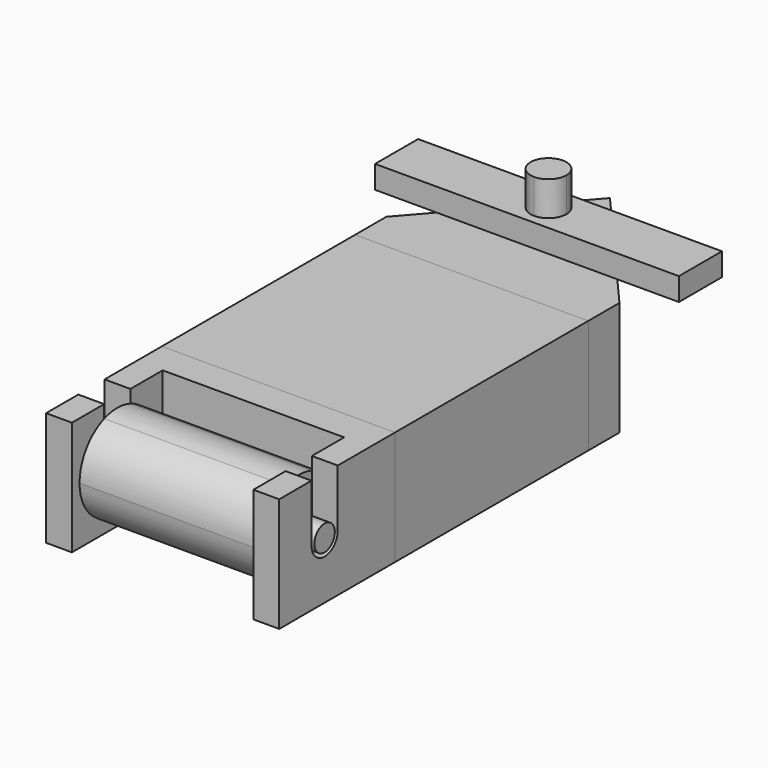
from build123d import *

# Parameters (mm, degrees)
F0_W          = 12.9693616182
F0_H          = 21.4865580201
F0_H_2        = 5.3862379864
F1_DEPTH      = 12.7
F2_DEPTH      = 12.7
F3_DEPTH      = 12.7
F4_DEPTH      = 19.05
F5_START      = 12.7
F5_DEPTH      = 2.54
F6_R          = 1.4172462463
F7_DEPTH      = 6.8084548617
F7_DEPTH_BACK = 26.9963636453
F8_DEPTH      = 23.0633160099
F8_DEPTH_BACK = 2.8754072264
F9_DEPTH      = 20.1879087836


with BuildPart() as f1:
    # F0 (on Top) → F1 (new body)
    with BuildSketch(Plane.XY):
        Polygon((0, 0), (0, 21.4865580201), (-12.9693616182, 21.4865580201), (-12.9693616182, 0), (-12.9693616182, -5.3862379864), (0, -5.3862379864), align=None)
        with Locations((6.4846808091, 10.7432790101)):
            Rectangle(F0_W, F0_H)
        with Locations((6.4846808091, -2.6931189932)):
            Rectangle(F0_W, F0_H_2)
    extrude(amount=F1_DEPTH)


with BuildPart() as f2:
    # F0 (on Top) → F2 (new body, through all)
    with BuildSketch(Plane.XY):
        Polygon((0, -8.8687147945), (0, -5.3862379864), (-12.9693616182, -5.3862379864), (-12.9693616182, -21.4865580201), (-10.0939543918, -21.4865580201), (-10.0939543918, -8.8687147945), align=None)
        Polygon((12.9693616182, -5.3862379864), (0, -5.3862379864), (0, -8.8687147945), (10.0939543918, -8.8687147945), (10.0939543918, -21.4865580201), (12.9693616182, -21.4865580201), align=None)
    extrude(amount=F2_DEPTH)

    # F6 (on face) → F7 (cut, two sides)
    with BuildSketch(Plane(origin=(10.0939543918, 0, 0), x_dir=(0, -1, 0), z_dir=(-1, 0, 0))) as f7_sk:
        with BuildLine():
            ThreePointArc((13.3500925612, 6.35), (15.1776364073, 4.5224561539), (17.0051802535, 6.35))
            ThreePointArc((17.0051802535, 6.35), (15.1776364073, 8.1775438461), (13.3500925612, 6.35))
        make_face()
        with Locations((15.1776364073, 6.35)):
            Circle(F6_R, mode=Mode.SUBTRACT)
        with Locations((15.1776364073, 6.35)):
            Circle(F6_R)
        with BuildLine():
            ThreePointArc((13.3500925612, 6.35), (15.1776364073, 8.1775438461), (17.0051802535, 6.35))
            Line((17.0051802535, 6.35), (17.0051802535, 11.2694925814))
            ThreePointArc((17.0051802535, 11.2694925814), (15.1776364073, 11.5979828284), (13.3500925612, 11.2694925814))
            Line((13.3500925612, 11.2694925814), (13.3500925612, 6.35))
        make_face()
        with BuildLine():
            ThreePointArc((13.3500925612, 11.2694925814), (15.1776364073, 11.5979828284), (17.0051802535, 11.2694925814))
            Line((17.0051802535, 11.2694925814), (17.0051802535, 12.7))
            Line((17.0051802535, 12.7), (13.3500925612, 12.7))
            Line((13.3500925612, 12.7), (13.3500925612, 11.2694925814))
        make_face()
    extrude(amount=-F7_DEPTH, mode=Mode.SUBTRACT)
    extrude(f7_sk.sketch, amount=F7_DEPTH_BACK, mode=Mode.SUBTRACT)


with BuildPart() as f3:
    # F0 (on Top) → F3 (new body, through all)
    with BuildSketch(Plane.XY):
        Polygon((-12.9693616182, 21.4865580201), (0, 21.4865580201), (0, 29.1743092239), (-10.0531563319, 29.1743092239), (-12.9693616182, 25.8271116763), align=None)
        Polygon((0, 29.1743092239), (0, 21.4865580201), (12.9693616182, 21.4865580201), (12.9693616182, 25.8271116763), (10.0531563319, 29.1743092239), align=None)
        with BuildLine():
            Line((0, 30.1767262363), (0, 29.1743092239))
            Line((0, 29.1743092239), (10.0531563319, 29.1743092239))
            Line((10.0531563319, 29.1743092239), (7.4459156487, 32.1668796241))
            Line((7.4459156487, 32.1668796241), (1.9901533878, 32.1668796241))
            ThreePointArc((1.9901533878, 32.1668796241), (1.4072509561, 30.759628668), (0, 30.1767262363))
        make_face()
        with BuildLine():
            Line((0, 35.1594500244), (0, 34.1570330119))
            ThreePointArc((0, 34.1570330119), (1.4072509561, 33.5741305802), (1.9901533878, 32.1668796241))
            Line((1.9901533878, 32.1668796241), (7.4459156487, 32.1668796241))
            Line((7.4459156487, 32.1668796241), (4.8386749655, 35.1594500244))
            Line((4.8386749655, 35.1594500244), (0, 35.1594500244))
        make_face()
        Polygon((0, 40.7132431865), (0, 35.1594500244), (4.8386749655, 35.1594500244), align=None)
        with BuildLine():
            Line((-10.0531563319, 29.1743092239), (0, 29.1743092239))
            Line((0, 29.1743092239), (0, 30.1767262363))
            ThreePointArc((0, 30.1767262363), (-1.9901533878, 32.1668796241), (0, 34.1570330119))
            Line((0, 34.1570330119), (0, 35.1594500244))
            Line((0, 35.1594500244), (-4.8386749655, 35.1594500244))
            Line((-4.8386749655, 35.1594500244), (-10.0531563319, 29.1743092239))
        make_face()
        Polygon((0, 40.7132431865), (-4.8386749655, 35.1594500244), (0, 35.1594500244), align=None)
        with BuildLine():
            Line((0, 32.1668796241), (0, 30.1767262363))
            ThreePointArc((0, 30.1767262363), (1.4072509561, 30.759628668), (1.9901533878, 32.1668796241))
            Line((1.9901533878, 32.1668796241), (0, 32.1668796241))
        make_face()
        with BuildLine():
            ThreePointArc((0, 34.1570330119), (-1.9901533878, 32.1668796241), (0, 30.1767262363))
            Line((0, 30.1767262363), (0, 32.1668796241))
            Line((0, 32.1668796241), (0, 34.1570330119))
        make_face()
        with BuildLine():
            Line((0, 34.1570330119), (0, 32.1668796241))
            Line((0, 32.1668796241), (1.9901533878, 32.1668796241))
            ThreePointArc((1.9901533878, 32.1668796241), (1.4072509561, 33.5741305802), (0, 34.1570330119))
        make_face()
    extrude(amount=F3_DEPTH)

    # F0 (on Top) → F4 (join)
    with BuildSketch(Plane.XY):
        with BuildLine():
            Line((0, 32.1668796241), (0, 30.1767262363))
            ThreePointArc((0, 30.1767262363), (1.4072509561, 30.759628668), (1.9901533878, 32.1668796241))
            Line((1.9901533878, 32.1668796241), (0, 32.1668796241))
        make_face()
        with BuildLine():
            Line((0, 34.1570330119), (0, 32.1668796241))
            Line((0, 32.1668796241), (1.9901533878, 32.1668796241))
            ThreePointArc((1.9901533878, 32.1668796241), (1.4072509561, 33.5741305802), (0, 34.1570330119))
        make_face()
        with BuildLine():
            ThreePointArc((0, 34.1570330119), (-1.9901533878, 32.1668796241), (0, 30.1767262363))
            Line((0, 30.1767262363), (0, 32.1668796241))
            Line((0, 32.1668796241), (0, 34.1570330119))
        make_face()
    extrude(amount=F4_DEPTH)


with BuildPart() as f5:
    # F0 (on Top) → F5 (new body)
    with BuildSketch(Plane.XY.offset(F5_START)):
        Polygon((7.4459156487, 32.1668796241), (10.0531563319, 29.1743092239), (16.9014092535, 29.1743092239), (16.9014092535, 32.1668796241), align=None)
        with BuildLine():
            Line((0, 30.1767262363), (0, 29.1743092239))
            Line((0, 29.1743092239), (10.0531563319, 29.1743092239))
            Line((10.0531563319, 29.1743092239), (7.4459156487, 32.1668796241))
            Line((7.4459156487, 32.1668796241), (1.9901533878, 32.1668796241))
            ThreePointArc((1.9901533878, 32.1668796241), (1.4072509561, 30.759628668), (0, 30.1767262363))
        make_face()
        Polygon((4.8386749655, 35.1594500244), (7.4459156487, 32.1668796241), (16.9014092535, 32.1668796241), (16.9014092535, 35.1594500244), align=None)
        with BuildLine():
            Line((0, 35.1594500244), (0, 34.1570330119))
            ThreePointArc((0, 34.1570330119), (1.4072509561, 33.5741305802), (1.9901533878, 32.1668796241))
            Line((1.9901533878, 32.1668796241), (7.4459156487, 32.1668796241))
            Line((7.4459156487, 32.1668796241), (4.8386749655, 35.1594500244))
            Line((4.8386749655, 35.1594500244), (0, 35.1594500244))
        make_face()
        with BuildLine():
            Line((-10.0531563319, 29.1743092239), (0, 29.1743092239))
            Line((0, 29.1743092239), (0, 30.1767262363))
            ThreePointArc((0, 30.1767262363), (-1.9901533878, 32.1668796241), (0, 34.1570330119))
            Line((0, 34.1570330119), (0, 35.1594500244))
            Line((0, 35.1594500244), (-4.8386749655, 35.1594500244))
            Line((-4.8386749655, 35.1594500244), (-10.0531563319, 29.1743092239))
        make_face()
        Polygon((-16.9014092535, 29.1743092239), (-10.0531563319, 29.1743092239), (-4.8386749655, 35.1594500244), (-16.9014092535, 35.1594500244), (-16.9014092535, 32.1668796241), align=None)
    extrude(amount=F5_DEPTH)


with BuildPart() as f8:
    # F6 (on face) → F8 (new body, two sides)
    with BuildSketch(Plane(origin=(10.0939543918, 0, 0), x_dir=(0, -1, 0), z_dir=(-1, 0, 0))) as f8_sk:
        with Locations((15.1776364073, 6.35)):
            Circle(F6_R)
    extrude(amount=F8_DEPTH)
    extrude(f8_sk.sketch, amount=-F8_DEPTH_BACK)

    # F6 (on face) → F9 (join, through all)
    with BuildSketch(Plane(origin=(10.0939543918, 0, 0), x_dir=(0, -1, 0), z_dir=(-1, 0, 0))):
        with BuildLine():
            ThreePointArc((13.3500925612, 6.35), (15.1776364073, 4.5224561539), (17.0051802535, 6.35))
            ThreePointArc((17.0051802535, 6.35), (15.1776364073, 8.1775438461), (13.3500925612, 6.35))
        make_face()
        with Locations((15.1776364073, 6.35)):
            Circle(F6_R, mode=Mode.SUBTRACT)
        with BuildLine():
            ThreePointArc((13.3500925612, 6.35), (15.1776364073, 8.1775438461), (17.0051802535, 6.35))
            Line((17.0051802535, 6.35), (17.0051802535, 11.2694925814))
            ThreePointArc((17.0051802535, 11.2694925814), (15.1776364073, 11.5979828284), (13.3500925612, 11.2694925814))
            Line((13.3500925612, 11.2694925814), (13.3500925612, 6.35))
        make_face()
        with BuildLine():
            Line((17.0051802535, 11.2694925814), (17.0051802535, 6.35))
            ThreePointArc((17.0051802535, 6.35), (15.1776364073, 4.5224561539), (13.3500925612, 6.35))
            Line((13.3500925612, 6.35), (13.3500925612, 11.2694925814))
            ThreePointArc((13.3500925612, 11.2694925814), (12.181772171, 2.0411577837), (20.4256192358, 6.35))
            ThreePointArc((20.4256192358, 6.35), (19.4864786236, 9.3458642363), (17.0051802535, 11.2694925814))
        make_face()
    extrude(amount=F9_DEPTH)


solid = Compound([f1.part, f2.part, f3.part, f5.part, f8.part])
